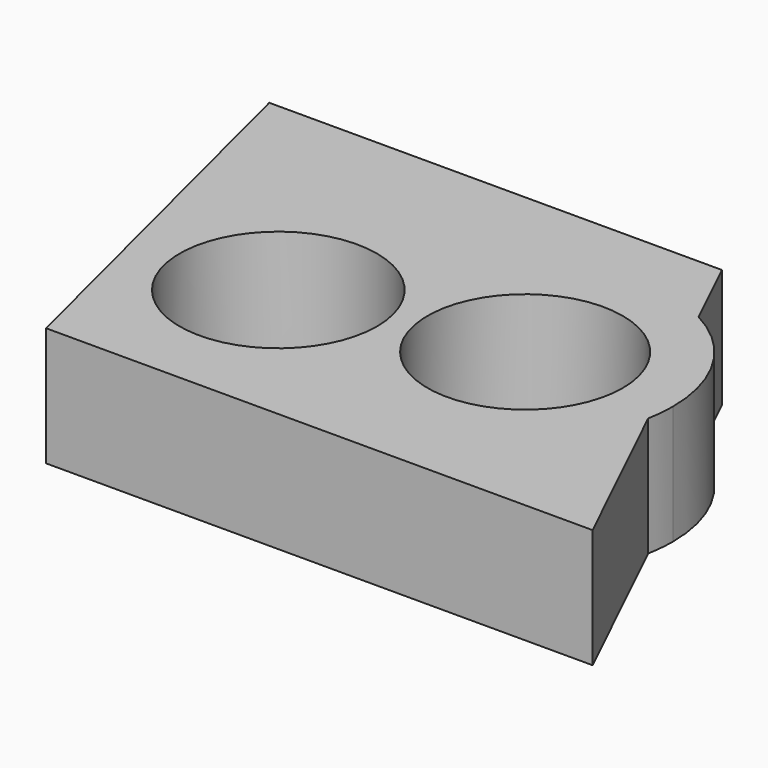
from build123d import *

# Parameters (mm, degrees)
F0_R     = 20.8565821632
F1_DEPTH = 25.4


with BuildPart() as f1:
    # F0 (on Top) → F1 (new body)
    with BuildSketch(Plane.XY):
        with BuildLine():
            Line((-41.851490736, 0), (-138.5076195002, 0))
            Line((-138.5076195002, 0), (-116.6970655322, -86.8278518319))
            Line((-116.6970655322, -86.8278518319), (0, -86.8278518319))
            Line((0, -86.8278518319), (-17.9794709813, -49.5264602942))
            ThreePointArc((-17.9794709813, -49.5264602942), (-43.2116401305, -74.6403530851), (-75.7857334668, -60.2772609946))
            ThreePointArc((-75.7857334668, -60.2772609946), (-115.8407580084, -55.5523652684), (-79.8986506619, -37.2522409479))
            ThreePointArc((-79.8986506619, -37.2522409479), (-62.4846109467, -15.0805313011), (-34.2980027941, -15.6709622596))
            Line((-34.2980027941, -15.6709622596), (-41.851490736, 0))
        make_face()
        with BuildLine():
            ThreePointArc((-17.4199218149, -43.6096377671), (-21.9669745384, -27.2891046366), (-34.2980027941, -15.6709622596))
            Line((-34.2980027941, -15.6709622596), (-17.9794709813, -49.5264602942))
            ThreePointArc((-17.9794709813, -49.5264602942), (-17.5601204804, -46.5812486134), (-17.4199218149, -43.6096377671))
        make_face()
        with BuildLine():
            Line((-17.9794709813, -49.5264602942), (-34.2980027941, -15.6709622596))
            ThreePointArc((-34.2980027941, -15.6709622596), (-62.4846109467, -15.0805313011), (-79.8986506619, -37.2522409479))
            ThreePointArc((-79.8986506619, -37.2522409479), (-75.5491310736, -43.9810085097), (-74.0258815603, -51.8470332026))
            ThreePointArc((-74.0258815603, -51.8470332026), (-74.4705361025, -56.1530121668), (-75.7857334668, -60.2772609946))
            ThreePointArc((-75.7857334668, -60.2772609946), (-43.2116401305, -74.6403530851), (-17.9794709813, -49.5264602942))
        make_face()
        with Locations((-48.9827282727, -43.6096377671)):
            Circle(F0_R, mode=Mode.SUBTRACT)
    extrude(amount=F1_DEPTH)


solid = f1.part
